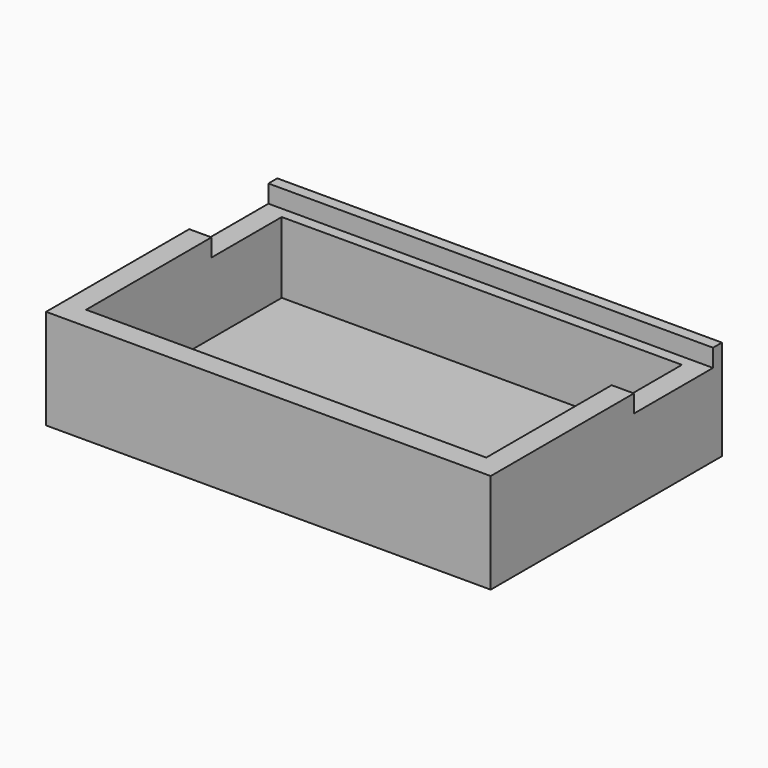
from build123d import *

# Parameters (mm, degrees)
F0_W      = 200
F0_H      = 130
F1_DEPTH  = 5
F2_W      = 200
F2_H      = 10
F3_DEPTH  = 32
F4_W      = 200
F4_H      = 5
F5_DEPTH  = 8
F6_W      = 10
F6_H      = 120
F7_DEPTH  = 32
F8_W      = 10
F8_H      = 120
F9_DEPTH  = 32
F10_W     = 180
F10_H     = 10
F11_DEPTH = 40
F12_W     = 10
F12_H     = 80.5
F13_DEPTH = 8
F14_W     = 10
F14_H     = 80.5
F15_DEPTH = 8


with BuildPart() as f1:
    # F0 (on Top) → F1 (new body)
    with BuildSketch(Plane.XY):
        Rectangle(F0_W, F0_H)
    extrude(amount=F1_DEPTH)

    # F2 (on face) → F3 (join)
    with BuildSketch(Plane.XY.offset(5)):
        with Locations((0, 60)):
            Rectangle(F2_W, F2_H)
    extrude(amount=F3_DEPTH)

    # F4 (on face) → F5 (join)
    with BuildSketch(Plane.XY.offset(37)):
        with Locations((0, 62.5)):
            Rectangle(F4_W, F4_H)
    extrude(amount=F5_DEPTH)

    # F6 (on face) → F7 (join)
    with BuildSketch(Plane.XY.offset(5)):
        with Locations((-95, -5)):
            Rectangle(F6_W, F6_H)
    extrude(amount=F7_DEPTH)

    # F8 (on face) → F9 (join)
    with BuildSketch(Plane.XY.offset(5)):
        with Locations((95, -5)):
            Rectangle(F8_W, F8_H)
    extrude(amount=F9_DEPTH)

    # F10 (on face) → F11 (join)
    with BuildSketch(Plane.XY.offset(5)):
        with Locations((0, -60)):
            Rectangle(F10_W, F10_H)
    extrude(amount=F11_DEPTH)

    # F12 (on face) → F13 (join)
    with BuildSketch(Plane.XY.offset(37)):
        with Locations((95, -24.75)):
            Rectangle(F12_W, F12_H)
    extrude(amount=F13_DEPTH)

    # F14 (on face) → F15 (join)
    with BuildSketch(Plane.XY.offset(37)):
        with Locations((-95, -24.75)):
            Rectangle(F14_W, F14_H)
    extrude(amount=F15_DEPTH)


solid = f1.part
